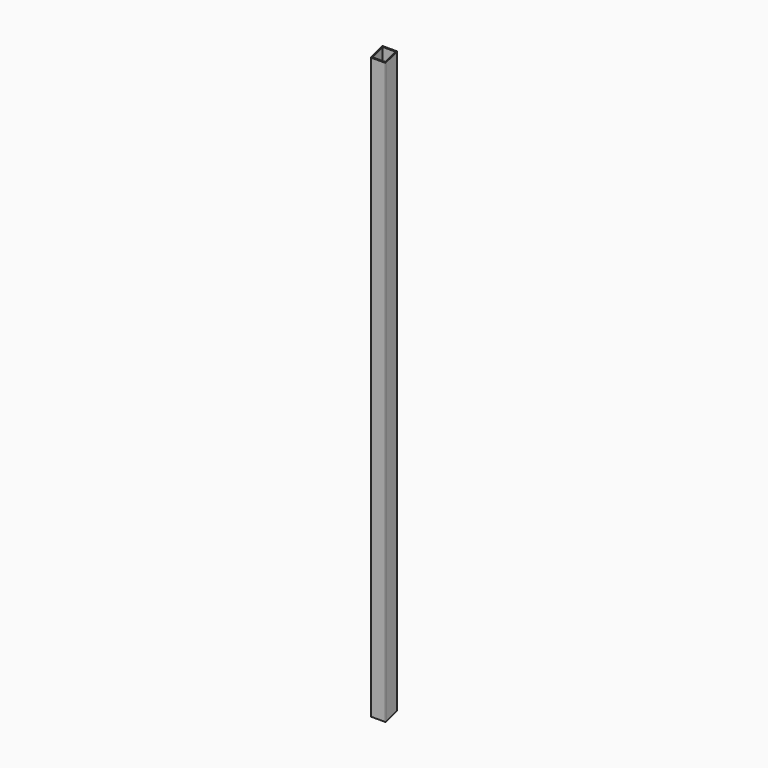
from build123d import *

# Parameters (mm, degrees)
SKETCH_W     = 25
SKETCH_H     = 25
SKETCH_W_2   = 22
SKETCH_H_2   = 22
PAD_DEPTH    = 993.5
FILLET_R     = 0.74
POCKET_DEPTH = 25.001


with BuildPart() as part:
    # Sketch → Pad (new body)
    with BuildSketch(Plane.XY):
        with Locations((12.5, 12.5)):
            Rectangle(SKETCH_W, SKETCH_H)
        with Locations((12.5, 12.5)):
            Rectangle(SKETCH_W_2, SKETCH_H_2, mode=Mode.SUBTRACT)
    extrude(amount=PAD_DEPTH)

    # Fillet
    fillet_edges = [part.edges().sort_by_distance(p)[0] for p in [
        (25, 0, 496.75),
        (0, 0, 496.75),
        (25, 25, 496.75),
        (0, 25, 496.75),
    ]]
    fillet(fillet_edges, radius=FILLET_R)

    # Sketch001 (on Face6 of Fillet) → Pocket (cut, through all)
    with BuildSketch(Plane(origin=(0, 0, 0), x_dir=(0, -1, 0), z_dir=(-1, 0, 0))):
        Polygon((0, 0), (-42.302197, 12.12996), (-25.0585, -14.483582), align=None)
        Polygon((-25, 993.5), (23.399026, 979.621803), (15.807791, 1006.485657), align=None)
    extrude(amount=-POCKET_DEPTH, mode=Mode.SUBTRACT)


solid = part.part
